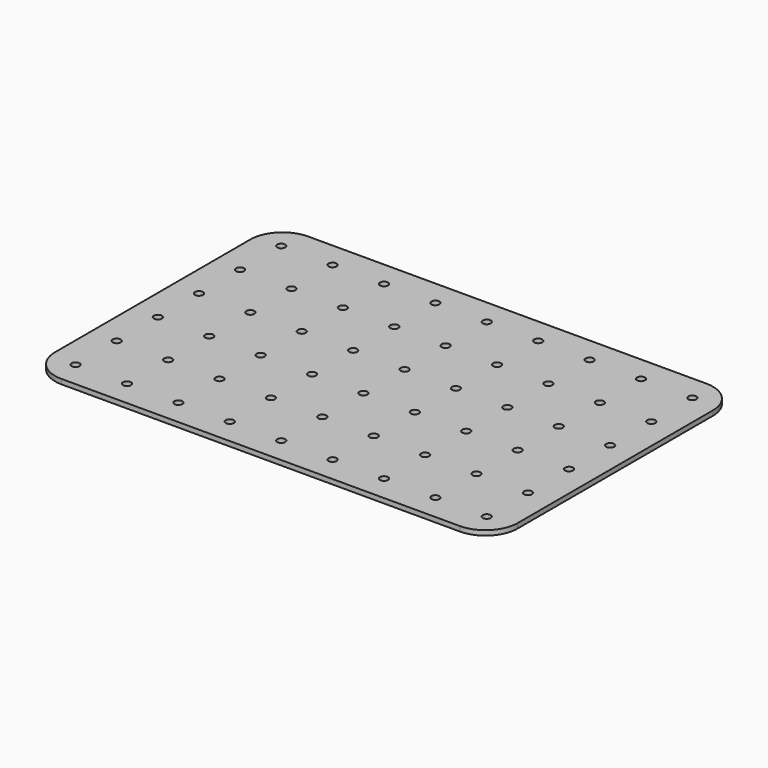
from build123d import *

# Parameters (mm, degrees)
PAD_DEPTH                   = 3
SKETCH001_R                 = 2.5
HOLE_DEPTH                  = 695.292846
SKETCH001_LINEARPATTERN_2_R = 2.5
HOLE_LINEARPATTERN_2_DEPTH  = 695.292846
SKETCH001_LINEARPATTERN_3_R = 2.5
HOLE_LINEARPATTERN_3_DEPTH  = 695.292846
SKETCH001_LINEARPATTERN_4_R = 2.5
HOLE_LINEARPATTERN_4_DEPTH  = 695.292846
SKETCH001_LINEARPATTERN_5_R = 2.5
HOLE_LINEARPATTERN_5_DEPTH  = 695.292846
SKETCH001_LINEARPATTERN_6_R = 2.5
HOLE_LINEARPATTERN_6_DEPTH  = 695.292846
SKETCH001_LINEARPATTERN_7_R = 2.5
HOLE_LINEARPATTERN_7_DEPTH  = 695.292846
SKETCH001_LINEARPATTERN_8_R = 2.5
HOLE_LINEARPATTERN_8_DEPTH  = 695.292846
SKETCH001_LINEARPATTERN_9_R = 2.5
HOLE_LINEARPATTERN_9_DEPTH  = 695.292846
LINEARPATTERN001_COUNT      = 6
LINEARPATTERN001_PITCH      = 32


with BuildPart() as part:
    # Sketch → Pad (new body)
    with BuildSketch(Plane.XY):
        with BuildLine():
            Line((-124, 96), (124, 96))
            ThreePointArc((144, 76), (138.142136, 90.142136), (124, 96))
            Line((144, 76), (144, -76))
            ThreePointArc((124, -96), (138.142136, -90.142136), (144, -76))
            Line((124, -96), (-124, -96))
            ThreePointArc((-144, -76), (-138.142136, -90.142136), (-124, -96))
            Line((-144, -76), (-144, 76))
            ThreePointArc((-124, 96), (-138.142136, 90.142136), (-144, 76))
        make_face()
    extrude(amount=PAD_DEPTH)

    # Sketch001 → Hole (cut, through all)
    with BuildSketch(Plane.XY):
        with Locations((128, 80)):
            Circle(SKETCH001_R)
    hole = extrude(amount=HOLE_DEPTH, mode=Mode.SUBTRACT)

    # Sketch001 LinearPattern 2 → Hole LinearPattern 2 (cut, through all)
    with BuildSketch(Plane(origin=(-32, 0, 0), x_dir=(1, 0, 0), z_dir=(0, 0, 1))):
        with Locations((128, 80)):
            Circle(SKETCH001_LINEARPATTERN_2_R)
    hole_linearpattern_2 = extrude(amount=HOLE_LINEARPATTERN_2_DEPTH, mode=Mode.SUBTRACT)

    # Sketch001 LinearPattern 3 → Hole LinearPattern 3 (cut, through all)
    with BuildSketch(Plane(origin=(-64, 0, 0), x_dir=(1, 0, 0), z_dir=(0, 0, 1))):
        with Locations((128, 80)):
            Circle(SKETCH001_LINEARPATTERN_3_R)
    hole_linearpattern_3 = extrude(amount=HOLE_LINEARPATTERN_3_DEPTH, mode=Mode.SUBTRACT)

    # Sketch001 LinearPattern 4 → Hole LinearPattern 4 (cut, through all)
    with BuildSketch(Plane(origin=(-96, 0, 0), x_dir=(1, 0, 0), z_dir=(0, 0, 1))):
        with Locations((128, 80)):
            Circle(SKETCH001_LINEARPATTERN_4_R)
    hole_linearpattern_4 = extrude(amount=HOLE_LINEARPATTERN_4_DEPTH, mode=Mode.SUBTRACT)

    # Sketch001 LinearPattern 5 → Hole LinearPattern 5 (cut, through all)
    with BuildSketch(Plane(origin=(-128, 0, 0), x_dir=(1, 0, 0), z_dir=(0, 0, 1))):
        with Locations((128, 80)):
            Circle(SKETCH001_LINEARPATTERN_5_R)
    hole_linearpattern_5 = extrude(amount=HOLE_LINEARPATTERN_5_DEPTH, mode=Mode.SUBTRACT)

    # Sketch001 LinearPattern 6 → Hole LinearPattern 6 (cut, through all)
    with BuildSketch(Plane(origin=(-160, 0, 0), x_dir=(1, 0, 0), z_dir=(0, 0, 1))):
        with Locations((128, 80)):
            Circle(SKETCH001_LINEARPATTERN_6_R)
    hole_linearpattern_6 = extrude(amount=HOLE_LINEARPATTERN_6_DEPTH, mode=Mode.SUBTRACT)

    # Sketch001 LinearPattern 7 → Hole LinearPattern 7 (cut, through all)
    with BuildSketch(Plane(origin=(-192, 0, 0), x_dir=(1, 0, 0), z_dir=(0, 0, 1))):
        with Locations((128, 80)):
            Circle(SKETCH001_LINEARPATTERN_7_R)
    hole_linearpattern_7 = extrude(amount=HOLE_LINEARPATTERN_7_DEPTH, mode=Mode.SUBTRACT)

    # Sketch001 LinearPattern 8 → Hole LinearPattern 8 (cut, through all)
    with BuildSketch(Plane(origin=(-224, 0, 0), x_dir=(1, 0, 0), z_dir=(0, 0, 1))):
        with Locations((128, 80)):
            Circle(SKETCH001_LINEARPATTERN_8_R)
    hole_linearpattern_8 = extrude(amount=HOLE_LINEARPATTERN_8_DEPTH, mode=Mode.SUBTRACT)

    # Sketch001 LinearPattern 9 → Hole LinearPattern 9 (cut, through all)
    with BuildSketch(Plane(origin=(-256, 0, 0), x_dir=(1, 0, 0), z_dir=(0, 0, 1))):
        with Locations((128, 80)):
            Circle(SKETCH001_LINEARPATTERN_9_R)
    hole_linearpattern_9 = extrude(amount=HOLE_LINEARPATTERN_9_DEPTH, mode=Mode.SUBTRACT)

    # LinearPattern001: Hole, Hole LinearPattern 2, Hole LinearPattern 3, Hole LinearPattern 4, Hole LinearPattern 5, Hole LinearPattern 6, Hole LinearPattern 7, Hole LinearPattern 8, Hole LinearPattern 9 ×6
    with Locations(*[(0, -i * LINEARPATTERN001_PITCH, 0) for i in range(1, LINEARPATTERN001_COUNT)]):
        add(hole, mode=Mode.SUBTRACT)
        add(hole_linearpattern_2, mode=Mode.SUBTRACT)
        add(hole_linearpattern_3, mode=Mode.SUBTRACT)
        add(hole_linearpattern_4, mode=Mode.SUBTRACT)
        add(hole_linearpattern_5, mode=Mode.SUBTRACT)
        add(hole_linearpattern_6, mode=Mode.SUBTRACT)
        add(hole_linearpattern_7, mode=Mode.SUBTRACT)
        add(hole_linearpattern_8, mode=Mode.SUBTRACT)
        add(hole_linearpattern_9, mode=Mode.SUBTRACT)


solid = part.part
